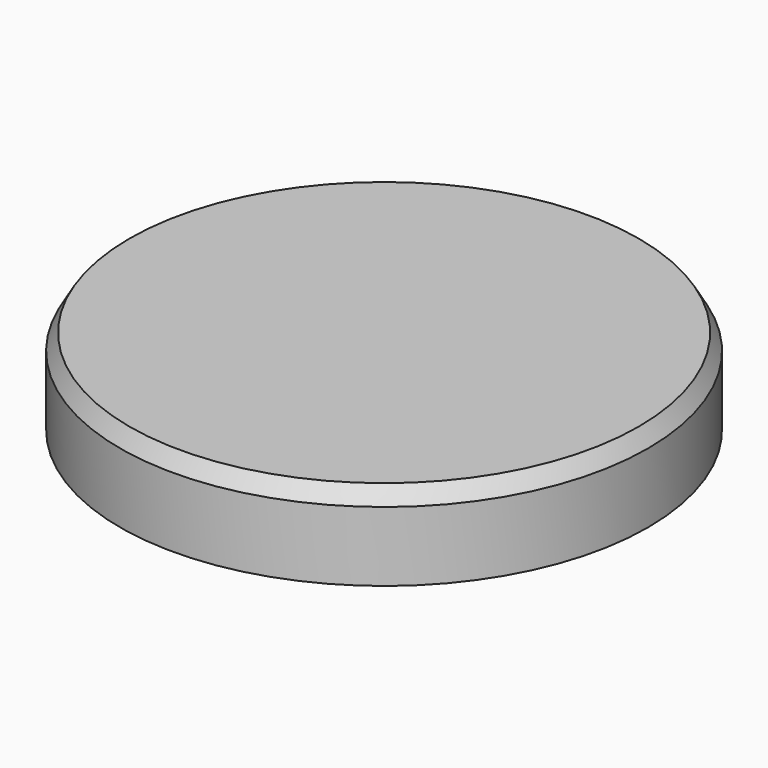
from build123d import *

# Parameters (mm, degrees)
F0_R     = 22.225
F1_DEPTH = 7.215
F3_SIZE2 = 0.784619
F3_SIZE  = 1.359


with BuildPart() as f1:
    # F0 (on Top) → F1 (new body)
    with BuildSketch(Plane.XY):
        Circle(F0_R)
    extrude(amount=F1_DEPTH)

    # F3
    f3_edges = [f1.edges().sort_by_distance(p)[0] for p in [
        (-22.225, 0, 7.215),
    ]]
    chamfer(f3_edges, length=F3_SIZE, length2=F3_SIZE2)


solid = f1.part
